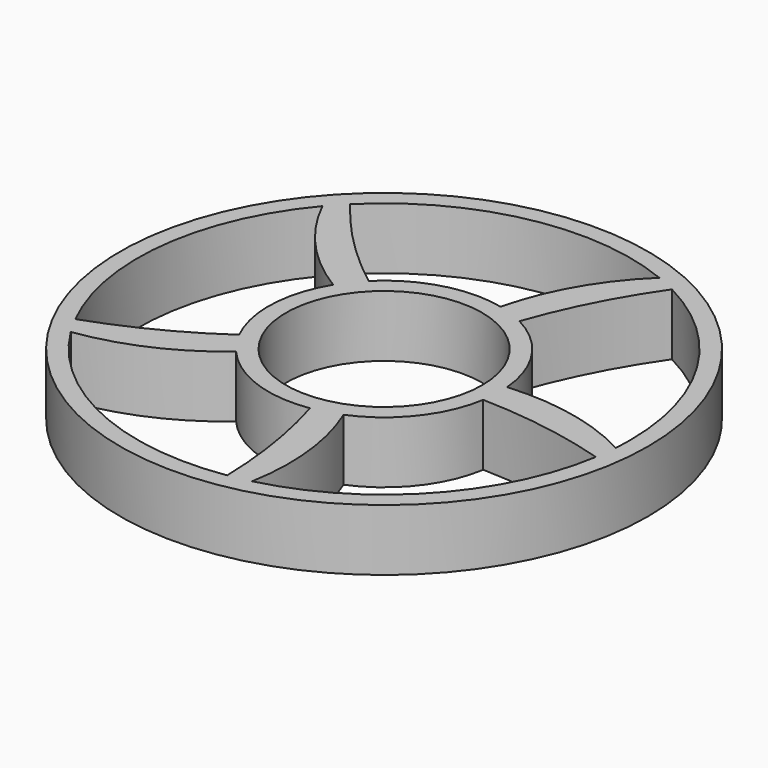
from build123d import *

# Parameters (mm, degrees)
F0_R     = 30
F0_R_2   = 11.15
F1_DEPTH = 7


with BuildPart() as f1:
    # F0 (on Top) → F1 (new body)
    with BuildSketch(Plane.XY):
        Circle(F0_R)
        with BuildLine():
            ThreePointArc((28, 0), (27.9822988603, -0.9954649642), (27.9292178218, -1.9896712952))
            ThreePointArc((27.9292178218, -1.9896712952), (27.8129822181, -3.2307924932), (27.6416211225, -4.4655102417))
            ThreePointArc((27.6416211225, -4.4655102417), (20.602163098, -18.9618268024), (6.7383130959, -27.1771068479))
            ThreePointArc((6.7383130959, -27.1771068479), (5.5220179162, -27.4500877618), (4.294778065, -27.6686624428))
            ThreePointArc((4.294778065, -27.6686624428), (-11.6673504231, -25.4533481905), (-23.7647113017, -14.8067044527))
            ThreePointArc((-23.7647113017, -14.8067044527), (-24.4001874594, -13.7342947378), (-24.9873023042, -12.6346635712))
            ThreePointArc((-24.9873023042, -12.6346635712), (-27.8129822181, 3.2307924932), (-21.4257124132, 18.0260602348))
            ThreePointArc((-21.4257124132, 18.0260602348), (-20.602163098, 18.9618268024), (-19.7377801762, 19.8600109193))
            ThreePointArc((-19.7377801762, 19.8600109193), (-5.5220179162, 27.4500877618), (10.5228927971, 25.947422361))
            ThreePointArc((10.5228927971, 25.947422361), (11.6673504231, 25.4533481905), (12.7886832929, 24.9088253363))
            ThreePointArc((12.7886832929, 24.9088253363), (23.8964760184, 14.5930954187), (28, 0))
        make_face(mode=Mode.SUBTRACT)
        with BuildLine():
            ThreePointArc((12.975568284, -2.1347430074), (13.1063195241, -1.0709288178), (13.15, 0))
            ThreePointArc((13.15, 0), (13.1385855357, 0.5477865655), (13.1043619587, 1.0946221515))
            ThreePointArc((13.1043619587, 1.0946221515), (10.9381412491, 7.2992853086), (6.0399323593, 11.6808269012))
            ThreePointArc((6.0399323593, 11.6808269012), (4.5587299007, 12.3345239751), (3.0084230156, 12.80124568))
            ThreePointArc((3.0084230156, 12.80124568), (-3.5619613242, 12.6583937182), (-9.2426847962, 9.3538910491))
            ThreePointArc((-9.2426847962, 9.3538910491), (-10.3221043898, 8.1471873039), (-11.2450542825, 6.8169827771))
            ThreePointArc((-11.2450542825, 6.8169827771), (-13.139554414, 0.5240322523), (-11.7522257106, -5.8998043058))
            ThreePointArc((-11.7522257106, -5.8998043058), (-10.9381412491, -7.2992853086), (-9.9582487676, -8.588118623))
            ThreePointArc((-9.9582487676, -8.588118623), (-4.5587299007, -12.3345239751), (1.9794098636, -13.000170637))
            ThreePointArc((1.9794098636, -13.000170637), (3.5619613242, -12.6583937182), (5.0905180757, -12.1247319855))
            ThreePointArc((5.0905180757, -12.1247319855), (10.3221043898, -8.1471873039), (12.975568284, -2.1347430074))
        make_face()
        Circle(F0_R_2, mode=Mode.SUBTRACT)
        with BuildLine():
            ThreePointArc((-11.2450542825, 6.8169827771), (-10.3221043898, 8.1471873039), (-9.2426847962, 9.3538910491))
            ThreePointArc((-9.2426847962, 9.3538910491), (-14.846536875, 14.2510204798), (-19.7377801762, 19.8600109193))
            ThreePointArc((-19.7377801762, 19.8600109193), (-20.602163098, 18.9618268024), (-21.4257124132, 18.0260602348))
            ThreePointArc((-21.4257124132, 18.0260602348), (-17.1435141452, 11.6875357338), (-11.2450542825, 6.8169827771))
        make_face()
        with BuildLine():
            ThreePointArc((3.0084230156, 12.80124568), (4.5587299007, 12.3345239751), (6.0399323593, 11.6808269012))
            ThreePointArc((6.0399323593, 11.6808269012), (8.9656936892, 18.5237031548), (12.7886832929, 24.9088253363))
            ThreePointArc((12.7886832929, 24.9088253363), (11.6673504231, 25.4533481905), (10.5228927971, 25.947422361))
            ThreePointArc((10.5228927971, 25.947422361), (5.8178698049, 19.9160980041), (3.0084230156, 12.80124568))
        make_face()
        with BuildLine():
            ThreePointArc((13.1043619587, 1.0946221515), (13.1385855357, 0.5477865655), (13.15, 0))
            ThreePointArc((13.15, 0), (13.1063195241, -1.0709288178), (12.975568284, -2.1347430074))
            ThreePointArc((12.975568284, -2.1347430074), (20.3876403076, -2.8027423326), (27.6416211225, -4.4655102417))
            ThreePointArc((27.6416211225, -4.4655102417), (27.8129822181, -3.2307924932), (27.9292178218, -1.9896712952))
            ThreePointArc((27.9292178218, -1.9896712952), (20.7391554267, 0.621289756), (13.1043619587, 1.0946221515))
        make_face()
        with BuildLine():
            ThreePointArc((6.7383130959, -27.1771068479), (6.9996331468, -19.532119818), (5.0905180757, -12.1247319855))
            ThreePointArc((5.0905180757, -12.1247319855), (3.5619613242, -12.6583937182), (1.9794098636, -13.000170637))
            ThreePointArc((1.9794098636, -13.000170637), (3.6345609713, -20.2558931781), (4.294778065, -27.6686624428))
            ThreePointArc((4.294778065, -27.6686624428), (5.5220179162, -27.4500877618), (6.7383130959, -27.1771068479))
        make_face()
        with BuildLine():
            ThreePointArc((-23.7647113017, -14.8067044527), (-16.4131442332, -12.6928036759), (-9.9582487676, -8.588118623))
            ThreePointArc((-9.9582487676, -8.588118623), (-10.9381412491, -7.2992853086), (-11.7522257106, -5.8998043058))
            ThreePointArc((-11.7522257106, -5.8998043058), (-18.1413580932, -9.7160881239), (-24.9873023042, -12.6346635712))
            ThreePointArc((-24.9873023042, -12.6346635712), (-24.4001874594, -13.7342947378), (-23.7647113017, -14.8067044527))
        make_face()
    extrude(amount=F1_DEPTH)


solid = f1.part
